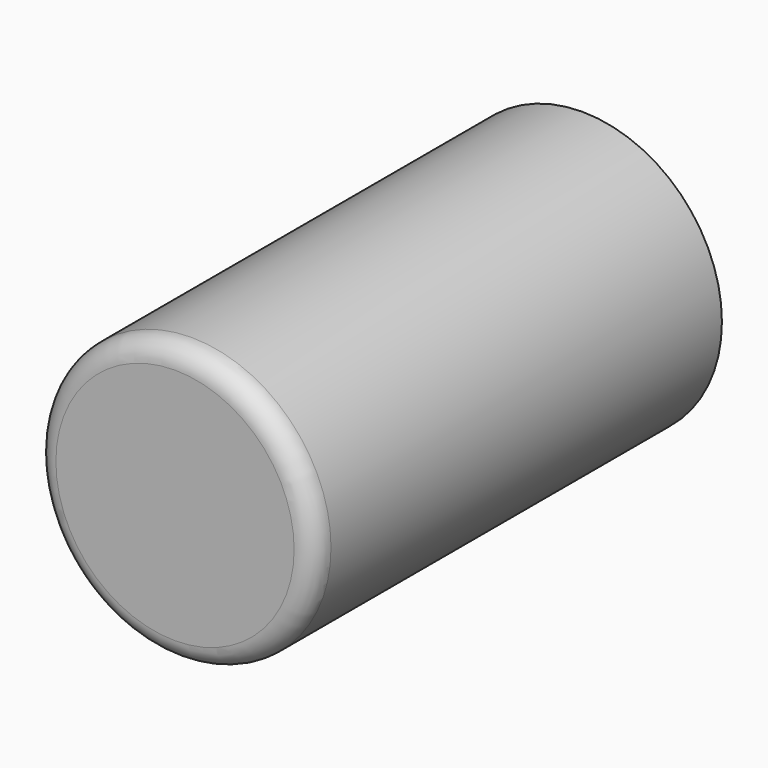
from build123d import *

# Parameters (mm, degrees)
F0_R     = 34.61531
F1_DEPTH = 126.238
F2_R     = 5.08


with BuildPart() as f1:
    # F0 (on Front) → F1 (new body)
    with BuildSketch(Plane.XZ):
        with Locations((-68.206519, 29.232409)):
            Circle(F0_R)
    extrude(amount=F1_DEPTH)

    # F2
    f2_edges = [f1.edges().sort_by_distance(p)[0] for p in [
        (-102.821829, -126.238, 29.232409),
    ]]
    fillet(f2_edges, radius=F2_R)


solid = f1.part
